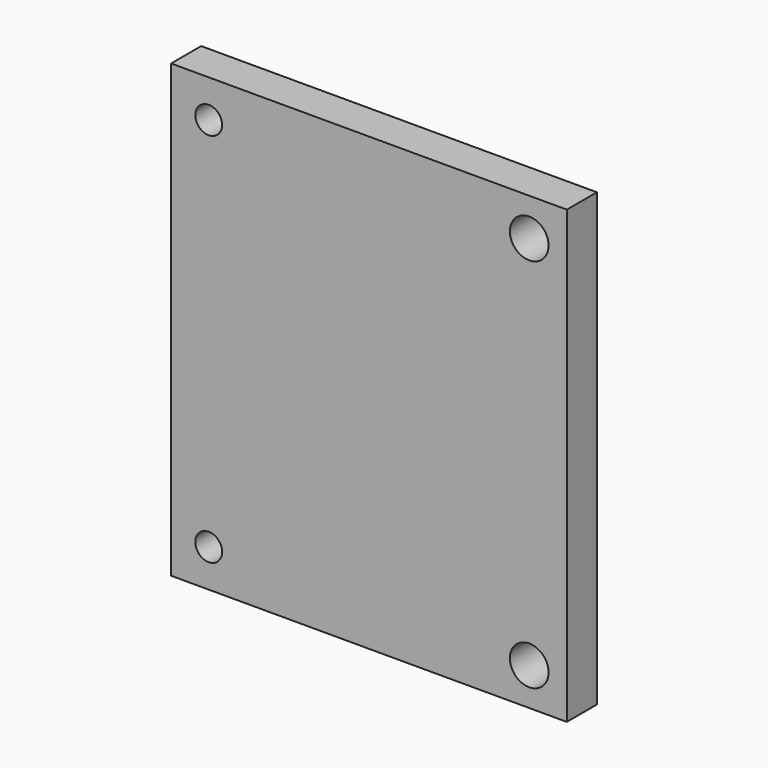
from build123d import *

# Parameters (mm, degrees)
F0_W     = 73.7
F0_H     = 84
F0_R     = 2.5
F0_R_2   = 3.6
F1_DEPTH = 7


with BuildPart() as f1:
    # F0 (on Front) → F1 (new body)
    with BuildSketch(Plane.XZ):
        with Locations((-32.094777, 21.537357)):
            Rectangle(F0_W, F0_H)
        with Locations((-61.944777, -13.462643)):
            Circle(F0_R, mode=Mode.SUBTRACT)
        with Locations((-2.244777, -13.462643)):
            Circle(F0_R_2, mode=Mode.SUBTRACT)
        with Locations((-61.944777, 56.537357)):
            Circle(F0_R, mode=Mode.SUBTRACT)
        with Locations((-2.244777, 56.537357)):
            Circle(F0_R_2, mode=Mode.SUBTRACT)
    extrude(amount=F1_DEPTH)


solid = f1.part
